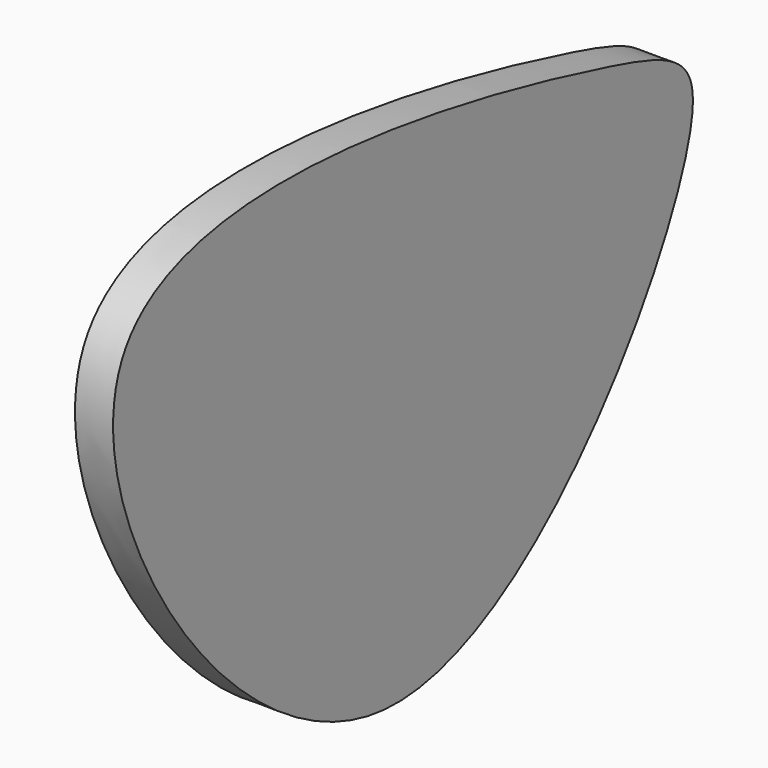
from build123d import *

# Parameters (mm, degrees)
F1_DEPTH = 2.54
F4_DEPTH = 2.54


with BuildPart() as f1:
    # F0 (on Front) → F1 (new body)
    with BuildSketch(Plane.XZ):
        Polygon((39.0037801344, -25.0662074544), (46.3638827205, 0), (39.0037801344, 25.0662074544), (19.2602529431, 42.1740711514), (-6.5982684711, 45.8919652456), (-30.3618862669, 35.0394846314), (-44.4858196998, 13.0622152239), (-44.4858196998, -13.0622152239), (-30.3618862669, -35.0394846314), (-6.5982684711, -45.8919652456), (19.2602529431, -42.1740711514), align=None)
    extrude(amount=F1_DEPTH)


with BuildPart() as f4:
    # F3 (on Right) → F4 (new body)
    with BuildSketch(Plane.YZ):
        with BuildLine():
            add(Edge.make_bspline(
                [(18.8344698399, -13.2863391191), (7.8289426418, -10.3412201612), (-40.536696967, 0.0143071379), (0.3851135743, -62.6771033415), (30.376378588, -17.2432031362), (23.9879630476, -14.6654325757), (18.8344698399, -13.2863391191)],
                knots=[0, 0, 0, 0, 0.2982422459, 0.5825411858, 0.8603438653, 1, 1, 1, 1], degree=3))
        make_face()
    extrude(amount=-F4_DEPTH)


solid = f4.part
